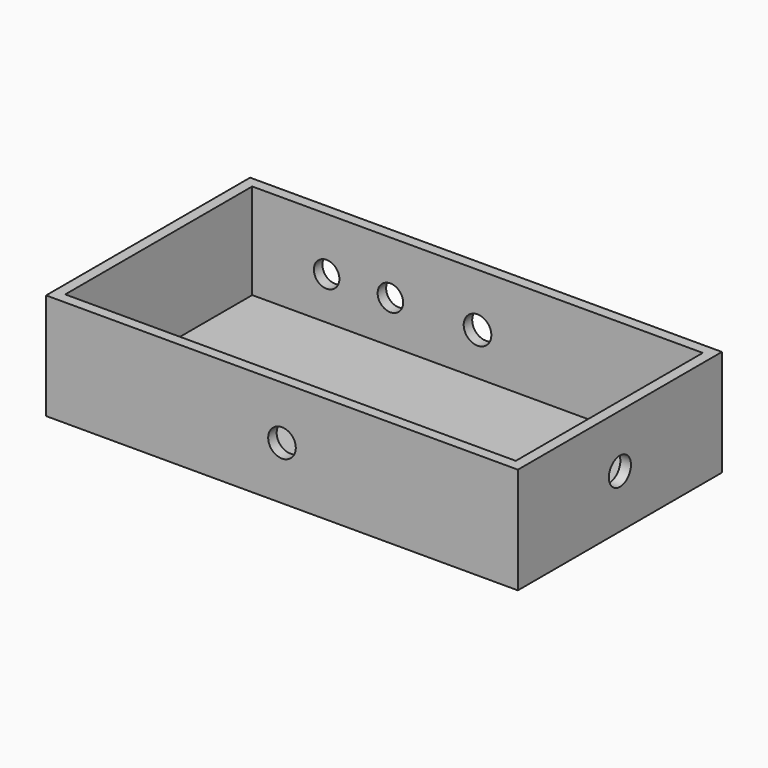
from build123d import *

# Parameters (mm, degrees)
F0_W          = 111
F0_H          = 60
F1_DEPTH      = 25
F2_T          = -2.5
F3_R          = 3.25
F4_DEPTH      = 55.5
F5_R          = 3.25
F6_DEPTH      = 30
F6_DEPTH_BACK = 30
F7_R          = 3
F8_DEPTH      = 30


with BuildPart() as f1:
    # F0 (on Top) → F1 (new body)
    with BuildSketch(Plane.XY):
        Rectangle(F0_W, F0_H)
    extrude(amount=F1_DEPTH)

    # F2
    f2_openings = [f1.faces().sort_by_distance(p)[0] for p in [
        (0, 0, 25),
    ]]
    offset(amount=F2_T, openings=f2_openings)

    # F3 (on Right) → F4 (cut, through all)
    with BuildSketch(Plane.YZ):
        with Locations((0, 12.5)):
            Circle(F3_R)
    extrude(amount=F4_DEPTH, mode=Mode.SUBTRACT)

    # F5 (on Front) → F6 (cut, two sides)
    with BuildSketch(Plane.XZ) as f6_sk:
        with Locations((0, 12.5)):
            Circle(F5_R)
    extrude(amount=-F6_DEPTH, mode=Mode.SUBTRACT)
    extrude(f6_sk.sketch, amount=F6_DEPTH_BACK, mode=Mode.SUBTRACT)

    # F7 (on Front) → F8 (cut, through all)
    with BuildSketch(Plane.XZ):
        with Locations((-35.5, 12.5)):
            Circle(F7_R)
        with Locations((-20.5, 12.5)):
            Circle(F7_R)
    extrude(amount=-F8_DEPTH, mode=Mode.SUBTRACT)


solid = f1.part
